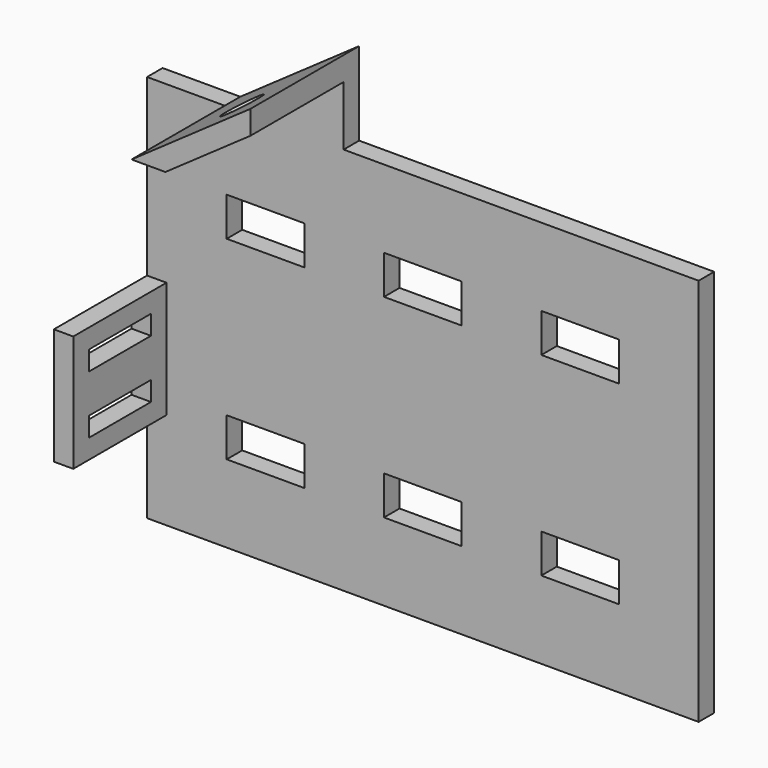
from build123d import *

# Parameters (mm, degrees)
F0_W     = 20
F0_H     = 10
F1_DEPTH = 5
F2_W     = 5
F2_H     = 30
F3_DEPTH = 30
F4_W     = 20
F4_H     = 5
F5_DEPTH = 5
F6_R     = 5
F7_DEPTH = 5


with BuildPart() as f1:
    # F0 (on Front) → F1 (new body)
    with BuildSketch(Plane.XZ):
        Polygon((0, 100), (0, 0), (142, 0), (142, 100), (50.6040596026, 100), (50.6040596026, 121.4291932336), (20, 100), align=None)
        with Locations((30.5, 25)):
            Rectangle(F0_W, F0_H, mode=Mode.SUBTRACT)
        with Locations((71, 25)):
            Rectangle(F0_W, F0_H, mode=Mode.SUBTRACT)
        with Locations((111.5, 25)):
            Rectangle(F0_W, F0_H, mode=Mode.SUBTRACT)
        with Locations((30.5, 75)):
            Rectangle(F0_W, F0_H, mode=Mode.SUBTRACT)
        with Locations((71, 75)):
            Rectangle(F0_W, F0_H, mode=Mode.SUBTRACT)
        with Locations((111.5, 75)):
            Rectangle(F0_W, F0_H, mode=Mode.SUBTRACT)
    extrude(amount=F1_DEPTH)

    # F2 (on face) → F3 (join)
    with BuildSketch(Plane.XZ.offset(5)):
        with Locations((2.5, 40)):
            Rectangle(F2_W, F2_H)
        Polygon((50.6040596026, 121.4291932336), (20, 100), (28.7172339781, 100), (50.6040596026, 115.3253202898), align=None)
    extrude(amount=F3_DEPTH)

    # F4 (on face) → F5 (cut, through all)
    with BuildSketch(Plane.YZ.offset(5)):
        with Locations((-20, 47.5)):
            Rectangle(F4_W, F4_H)
        with Locations((-20, 32.5)):
            Rectangle(F4_W, F4_H)
    extrude(amount=-F5_DEPTH, mode=Mode.SUBTRACT)

    # F6 (on face) → F7 (cut, through all)
    with BuildSketch(Plane(origin=(-37.5369502908, 0, 53.608320737), x_dir=(0.8191520443, 0, 0.5735764364), z_dir=(0.5735764364, 0, -0.8191520443))):
        with Locations((93.7406845209, 20)):
            Circle(F6_R)
    extrude(amount=-F7_DEPTH, mode=Mode.SUBTRACT)


solid = f1.part
